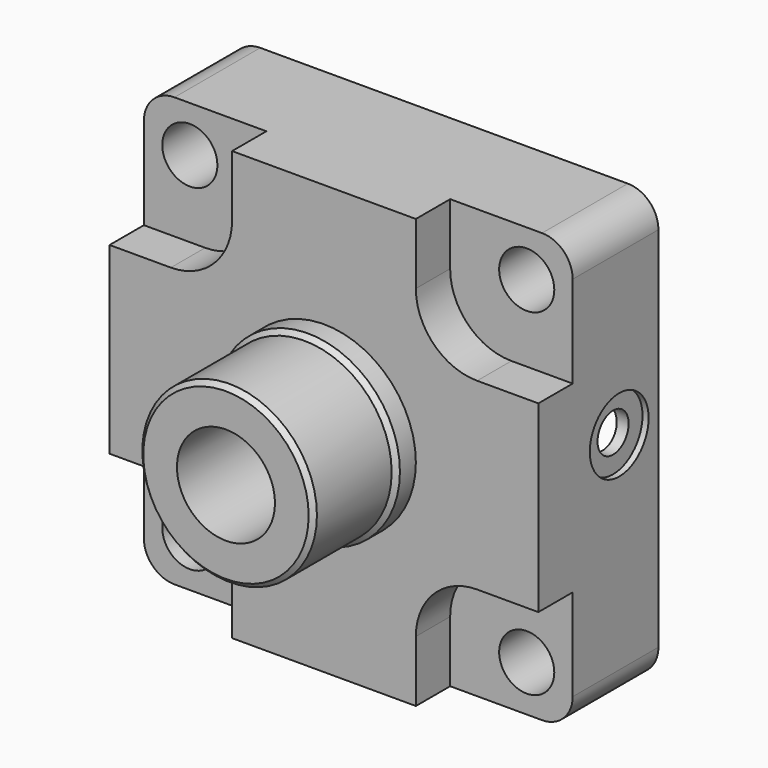
from build123d import *

# Parameters (mm, degrees)
F0_R      = 9
F1_DEPTH  = 24.5
F2_R      = 9
F3_DEPTH  = 14
F4_R      = 30
F5_DEPTH  = 8
F6_SIZE   = 1.5
F7_R      = 28.5
F8_DEPTH  = 32
F9_SIZE   = 1.5
F10_R     = 16
F11_DEPTH = 89.001
F12_R     = 64.5
F12_R_2   = 16
F13_DEPTH = 30
F14_R     = 12
F14_R_2   = 6.35
F15_DEPTH = 2
F16_DEPTH = 9


with BuildPart() as f1:
    # F0 (on Front) → F1 (new body, symmetric)
    with BuildSketch(Plane.XZ):
        with BuildLine():
            Line((-60, -70), (60, -70))
            ThreePointArc((60, -70), (67.0710678119, -67.0710678119), (70, -60))
            Line((70, -60), (70, 60))
            ThreePointArc((70, 60), (67.0710678119, 67.0710678119), (60, 70))
            Line((60, 70), (-60, 70))
            ThreePointArc((-60, 70), (-67.0710678119, 67.0710678119), (-70, 60))
            Line((-70, 60), (-70, -60))
            ThreePointArc((-70, -60), (-67.0710678119, -67.0710678119), (-60, -70))
        make_face()
        with Locations((-55, -55)):
            Circle(F0_R, mode=Mode.SUBTRACT)
        with Locations((55, -55)):
            Circle(F0_R, mode=Mode.SUBTRACT)
        with Locations((-55, 55)):
            Circle(F0_R, mode=Mode.SUBTRACT)
        with Locations((55, 55)):
            Circle(F0_R, mode=Mode.SUBTRACT)
    extrude(amount=F1_DEPTH, both=True)

    # F2 (on face) → F3 (cut)
    with BuildSketch(Plane.XZ.offset(24.5)):
        with BuildLine():
            Line((30, -50), (30, -70))
            Line((30, -70), (60, -70))
            ThreePointArc((60, -70), (67.0710678119, -67.0710678119), (70, -60))
            Line((70, -60), (70, -30))
            Line((70, -30), (50, -30))
            ThreePointArc((50, -30), (35.8578643763, -35.8578643763), (30, -50))
        make_face()
        with Locations((55, -55)):
            Circle(F2_R, mode=Mode.SUBTRACT)
        with BuildLine():
            Line((60, 70), (30, 70))
            Line((30, 70), (30, 50))
            ThreePointArc((30, 50), (35.8578643763, 35.8578643763), (50, 30))
            Line((50, 30), (70, 30))
            Line((70, 30), (70, 60))
            ThreePointArc((70, 60), (67.0710678119, 67.0710678119), (60, 70))
        make_face()
        with Locations((55, 55)):
            Circle(F2_R, mode=Mode.SUBTRACT)
        with BuildLine():
            Line((-70, 60), (-70, 30))
            Line((-70, 30), (-50, 30))
            ThreePointArc((-50, 30), (-35.8578643763, 35.8578643763), (-30, 50))
            Line((-30, 50), (-30, 70))
            Line((-30, 70), (-60, 70))
            ThreePointArc((-60, 70), (-67.0710678119, 67.0710678119), (-70, 60))
        make_face()
        with Locations((-55, 55)):
            Circle(F2_R, mode=Mode.SUBTRACT)
        with BuildLine():
            Line((-50, -30), (-70, -30))
            Line((-70, -30), (-70, -60))
            ThreePointArc((-70, -60), (-67.0710678119, -67.0710678119), (-60, -70))
            Line((-60, -70), (-30, -70))
            Line((-30, -70), (-30, -50))
            ThreePointArc((-30, -50), (-35.8578643763, -35.8578643763), (-50, -30))
        make_face()
        with Locations((-55, -55)):
            Circle(F2_R, mode=Mode.SUBTRACT)
    extrude(amount=-F3_DEPTH, mode=Mode.SUBTRACT)

    # F4 (on face) → F5 (join)
    with BuildSketch(Plane.XZ.offset(24.5)):
        Circle(F4_R)
    extrude(amount=F5_DEPTH)

    # F6
    f6_edges = [f1.edges().sort_by_distance(p)[0] for p in [
        (-30, -32.5, 0),
    ]]
    chamfer(f6_edges, length=F6_SIZE)

    # F7 (on face) → F8 (join)
    with BuildSketch(Plane.XZ.offset(32.5)):
        Circle(F7_R)
    extrude(amount=F8_DEPTH)

    # F9
    f9_edges = [f1.edges().sort_by_distance(p)[0] for p in [
        (-28.5, -64.5, 0),
    ]]
    chamfer(f9_edges, length=F9_SIZE)

    # F10 (on face) → F11 (cut, through all)
    with BuildSketch(Plane.XZ.offset(64.5)):
        Circle(F10_R)
    extrude(amount=-F11_DEPTH, mode=Mode.SUBTRACT)

    # F12 (on face) → F13 (cut)
    with BuildSketch(Plane(origin=(0, 24.5, 0), x_dir=(-1, 0, 0), z_dir=(0, 1, 0))):
        Circle(F12_R)
        Circle(F12_R_2, mode=Mode.SUBTRACT)
    extrude(amount=-F13_DEPTH, mode=Mode.SUBTRACT)

    # F14 (on face) → F15 (cut)
    with BuildSketch(Plane.YZ.offset(70)):
        with Locations((8.5, 7.547759451)):
            Circle(F14_R)
        with Locations((8.5, 7.547759451)):
            Circle(F14_R_2, mode=Mode.SUBTRACT)
    extrude(amount=-F15_DEPTH, mode=Mode.SUBTRACT)

    # F16 (cut): a face of the model
    f16_faces = [f1.faces().sort_by_distance(p)[0] for p in [
        (70, 8.5, 7.547759451),
    ]]
    extrude(f16_faces, amount=-F16_DEPTH, mode=Mode.SUBTRACT)


solid = f1.part
